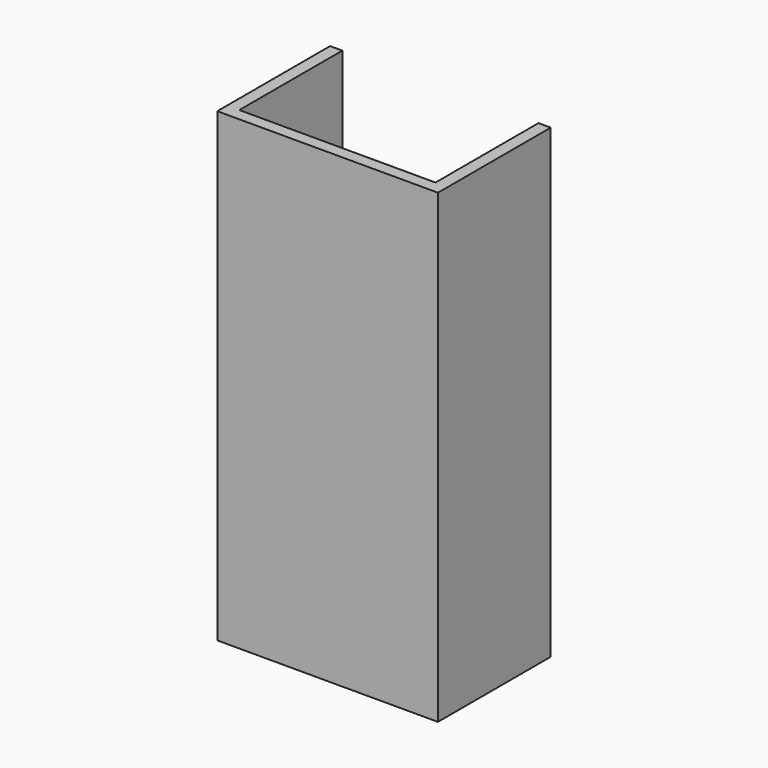
from build123d import *

# Parameters (mm, degrees)
F1_DEPTH = 4826


with BuildPart() as f1:
    # F0 (on Top) → F1 (new body, symmetric)
    with BuildSketch(Plane.XY):
        Polygon((-2039.799452, 2921), (-2039.799452, 0), (2532.200548, 0), (2532.200548, 2921), (2278.200548, 2921), (2278.200548, 254), (-1785.799452, 254), (-1785.799452, 2921), align=None)
    extrude(amount=F1_DEPTH, both=True)


solid = f1.part
